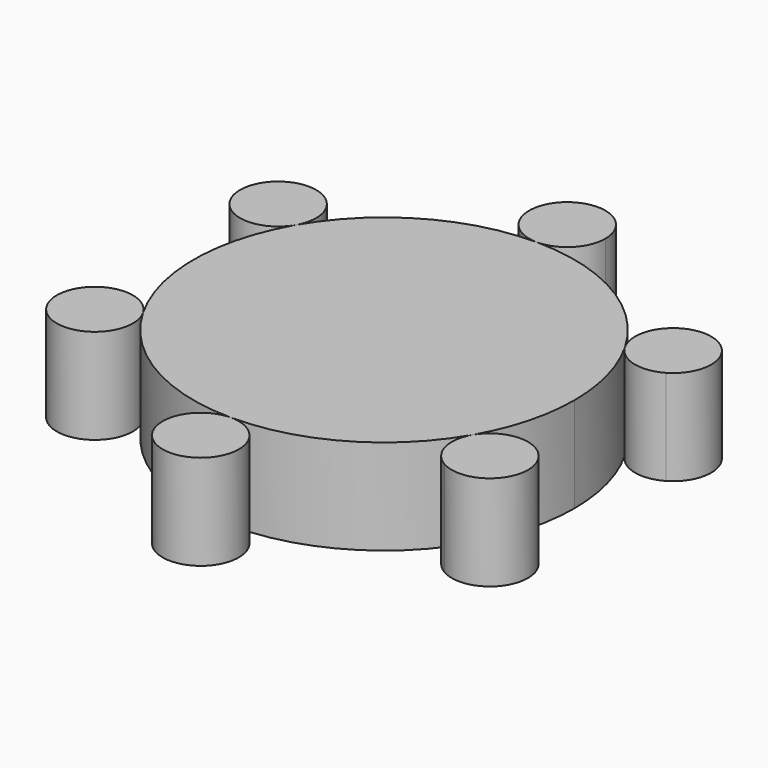
from build123d import *

# Parameters (mm, degrees)
F1_DEPTH = 25
F2_DEPTH = 25
F3_COUNT = 6


with BuildPart() as f1:
    # F0 (on Top) → F1 (new body)
    with BuildSketch(Plane.XY):
        with BuildLine():
            ThreePointArc((-0.0215190918, 55.4739596518), (-35.5224711994, -29.8432031255), (49.8708874497, 5.4740754154))
            ThreePointArc((49.8708874497, 5.4740754154), (35.2642460987, 40.7913539563), (-0.0215190918, 55.4739596518))
        make_face()
    extrude(amount=F1_DEPTH)

    # F0 (on Top) → F2 (join)
    with BuildSketch(Plane.XY):
        with BuildLine():
            ThreePointArc((10, 65.4739364982), (-7.0634555666, 72.5526083693), (-0.0215190918, 55.4739596518))
            ThreePointArc((-0.0215190918, 55.4739596518), (7.0634555666, 58.395264627), (10, 65.4739364982))
        make_face()
    extrude(amount=F2_DEPTH)

    # F3: F1 ×6 about axis
    f3_axis = Axis((-0.1291125503, 5.4740754154, 25), (0, 0, -1))


with BuildPart() as f1_1:
    add(f1.part)
    for i in range(1, F3_COUNT):
        add(f1.part.rotate(f3_axis, i * 360 / F3_COUNT))


solid = f1_1.part
